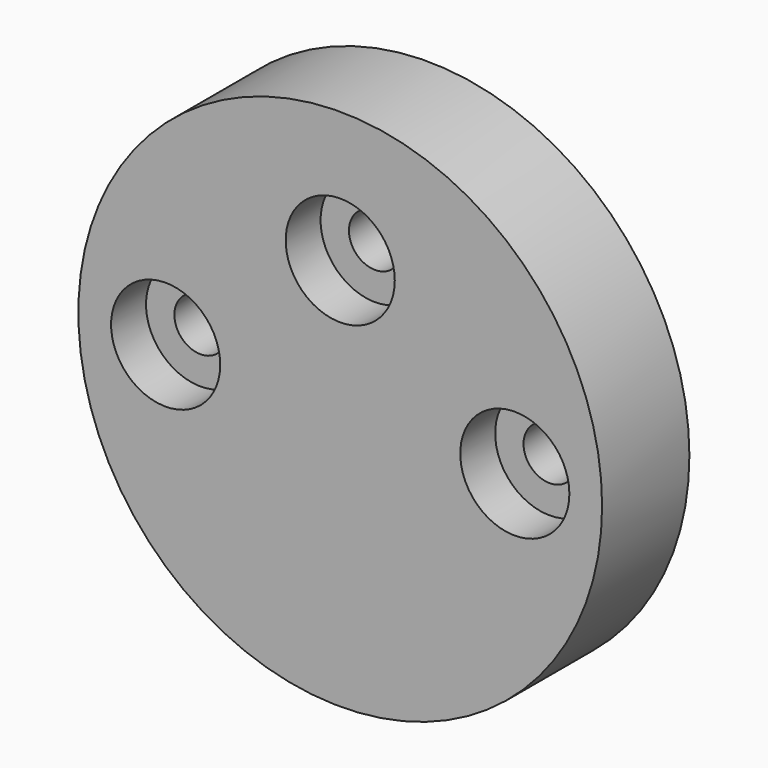
from build123d import *

# Parameters (mm, degrees)
F0_R     = 12
F1_DEPTH = 5
F2_R     = 1.2
F3_DEPTH = 5
F4_R     = 2.5
F5_DEPTH = 2


with BuildPart() as f1:
    # F0 (on Front) → F1 (new body)
    with BuildSketch(Plane.XZ):
        Circle(F0_R)
    extrude(amount=F1_DEPTH)

    # F2 (on face) → F3 (cut)
    with BuildSketch(Plane(origin=(0, 0, 0), x_dir=(-1, 0, 0), z_dir=(0, 1, 0))):
        with Locations((8, 0)):
            Circle(F2_R)
        with Locations((-8, 0)):
            Circle(F2_R)
        with Locations((0, 6)):
            Circle(F2_R)
    extrude(amount=-F3_DEPTH, mode=Mode.SUBTRACT)

    # F4 (on face) → F5 (cut)
    with BuildSketch(Plane.XZ.offset(5)):
        with Locations((0, 6)):
            Circle(F4_R)
        with Locations((8, 0)):
            Circle(F4_R)
        with Locations((-8, 0)):
            Circle(F4_R)
    extrude(amount=-F5_DEPTH, mode=Mode.SUBTRACT)


solid = f1.part
